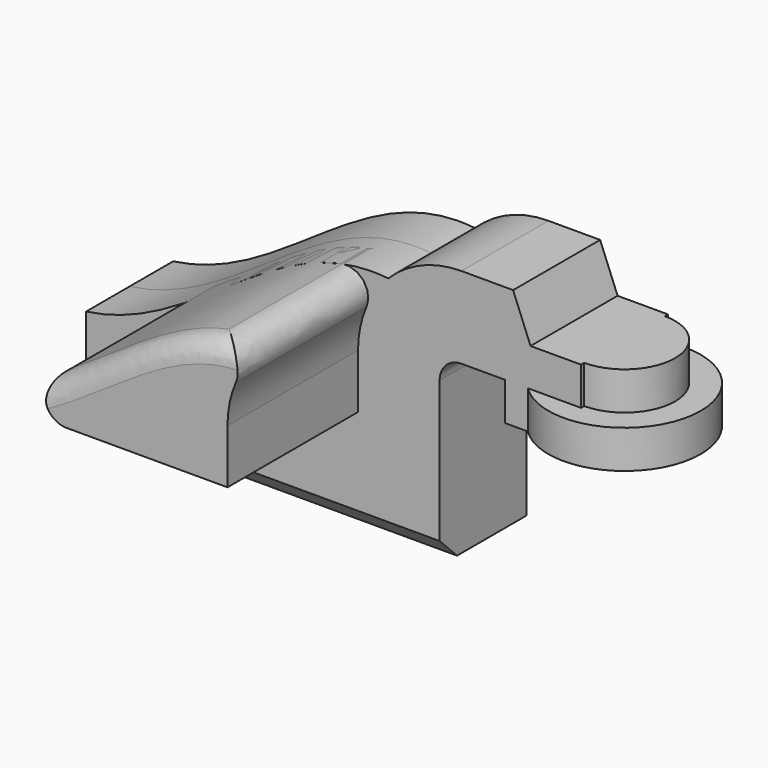
from build123d import *

# Parameters (mm, degrees)
F0_W     = 5.9931609198
F0_H     = 8.89
F1_DEPTH = 12.7
F2_DEPTH = 50.8
F4_R     = 5.08
F5_SIZE  = 5.08


with BuildPart() as f1:
    # F0 (on Front) → F1 (new body, symmetric)
    with BuildSketch(Plane.XZ):
        Polygon((-41.275, -12.7), (41.275, -12.7), (41.275, 12.7), (22.225, 12.7), (-41.275, 12.7), align=None)
        with BuildLine():
            Line((22.225, 12.7), (41.275, 12.7))
            Line((41.275, 12.7), (41.275, 25.4))
            ThreePointArc((41.275, 25.4), (42.7628975516, 28.9921024484), (46.355, 30.48))
            Line((46.355, 30.48), (56.515, 30.48))
            Line((56.515, 30.48), (56.515, 39.37))
            Line((56.515, 39.37), (62.5081609198, 39.37))
            Line((62.5081609198, 39.37), (58.4329057574, 49.53))
            Line((58.4329057574, 49.53), (46.3550021176, 49.53))
            ThreePointArc((46.3550021176, 49.53), (37.120850156, 47.6932136907), (29.2925139835, 42.4624872435))
            ThreePointArc((29.2925139835, 42.4624872435), (24.0617869733, 34.6341514471), (22.225, 25.3999996176))
            Line((22.225, 25.3999996176), (22.225, 12.7))
        make_face()
        with BuildLine():
            add(Edge.make_bspline(
                [(-41.275, 12.7), (-14.81856592, 16.292469576), (2.5012880545, 45.3286993765), (29.2925139835, 42.4624872435)],
                knots=[0, 0, 0, 0, 76.587072517, 76.587072517, 76.587072517, 76.587072517], degree=3))
            Line((-41.275, 12.7), (22.225, 12.7))
            Line((22.225, 12.7), (22.225, 25.3999996176))
            ThreePointArc((22.225, 25.3999996176), (24.0617869733, 34.6341514471), (29.2925139835, 42.4624872435))
        make_face()
        Polygon((62.5081609198, 30.48), (56.515, 30.48), (56.515, 21.59), (74.295, 21.59), (74.295, 39.37), (62.5081609198, 39.37), align=None)
        with Locations((59.5115804599, 34.925)):
            Rectangle(F0_W, F0_H)
    extrude(amount=F1_DEPTH, both=True)

    # F0 (on Front) → F3 (revolve)
    with BuildSketch(Plane.XZ):
        Polygon((62.5081609198, 30.48), (56.515, 30.48), (56.515, 21.59), (74.295, 21.59), (74.295, 39.37), (62.5081609198, 39.37), align=None)
    revolve(axis=Axis((74.295, 0, 30.48), (0, 0, 1)))

    # F5
    f5_edges = [f1.edges().sort_by_distance(p)[0] for p in [
        (0, -12.7, -12.7),
    ]]
    chamfer(f5_edges, length=F5_SIZE)


with BuildPart() as f2:
    # F0 (on Front) → F2 (new body)
    with BuildSketch(Plane.XZ):
        with BuildLine():
            add(Edge.make_bspline(
                [(-41.275, 12.7), (-14.81856592, 16.292469576), (2.5012880545, 45.3286993765), (29.2925139835, 42.4624872435)],
                knots=[0, 0, 0, 0, 76.587072517, 76.587072517, 76.587072517, 76.587072517], degree=3))
            Line((-41.275, 12.7), (22.225, 12.7))
            Line((22.225, 12.7), (22.225, 25.3999996176))
            ThreePointArc((22.225, 25.3999996176), (24.0617869733, 34.6341514471), (29.2925139835, 42.4624872435))
        make_face()
    extrude(amount=F2_DEPTH)

    # F4
    f4_edges = [f2.edges().sort_by_distance(p)[0] for p in [
        (-41.275, -25.4, 12.7),
        (29.292514, -25.4, 42.462487),
        (-6.605484, 0, 29.675779),
        (-6.605484, -50.8, 29.675779),
    ]]
    fillet(f4_edges, radius=F4_R)


solid = Compound([f1.part, f2.part])
